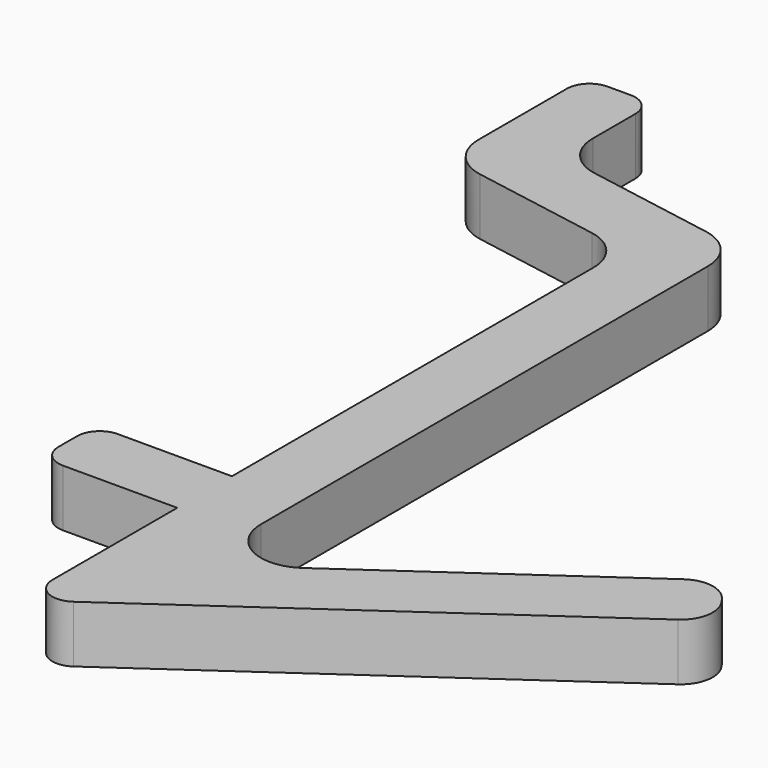
from build123d import *

# Parameters (mm, degrees)
PAD_DEPTH   = 2.5
FILLET_R    = 0.99
FILLET001_R = 0.99
FILLET002_R = 1.4
FILLET003_R = 2
FILLET004_R = 1
FILLET005_R = 2


with BuildPart() as part:
    # Sketch → Pad (new body)
    with BuildSketch(Plane.XY):
        Polygon((0, 0), (15, 10.503113), (16.720729, 8.045657), (-3, -5.762946), (-3, 3), (-9, 3), (-9, 6), (-3, 6), (-3, 27.5), (-12, 29.086943), (-12, 36.604242), (-9, 36.604242), (-9, 31.604242), (0, 30.017299), align=None)
    extrude(amount=PAD_DEPTH)

    # Fillet
    fillet_edges = [part.edges().sort_by_distance(p)[0] for p in [
        (-9, 3, 1.25),
        (-9, 6, 1.25),
    ]]
    fillet(fillet_edges, radius=FILLET_R)

    # Fillet001
    fillet001_edges = [part.edges().sort_by_distance(p)[0] for p in [
        (-12, 36.604242, 1.25),
        (-9, 36.604242, 1.25),
    ]]
    fillet(fillet001_edges, radius=FILLET001_R)

    # Fillet002
    fillet002_edges = [part.edges().sort_by_distance(p)[0] for p in [
        (15, 10.503113, 1.25),
        (16.720729, 8.045657, 1.25),
    ]]
    fillet(fillet002_edges, radius=FILLET002_R)

    # Fillet003
    fillet003_edges = [part.edges().sort_by_distance(p)[0] for p in [
        (0, 0, 1.25),
    ]]
    fillet(fillet003_edges, radius=FILLET003_R)

    # Fillet004
    fillet004_edges = [part.edges().sort_by_distance(p)[0] for p in [
        (-3, -5.762946, 1.25),
    ]]
    fillet(fillet004_edges, radius=FILLET004_R)

    # Fillet005
    fillet005_edges = [part.edges().sort_by_distance(p)[0] for p in [
        (-12, 29.086943, 1.25),
        (-3, 27.5, 1.25),
        (0, 30.017299, 1.25),
        (-9, 31.604242, 1.25),
    ]]
    fillet(fillet005_edges, radius=FILLET005_R)


solid = part.part
